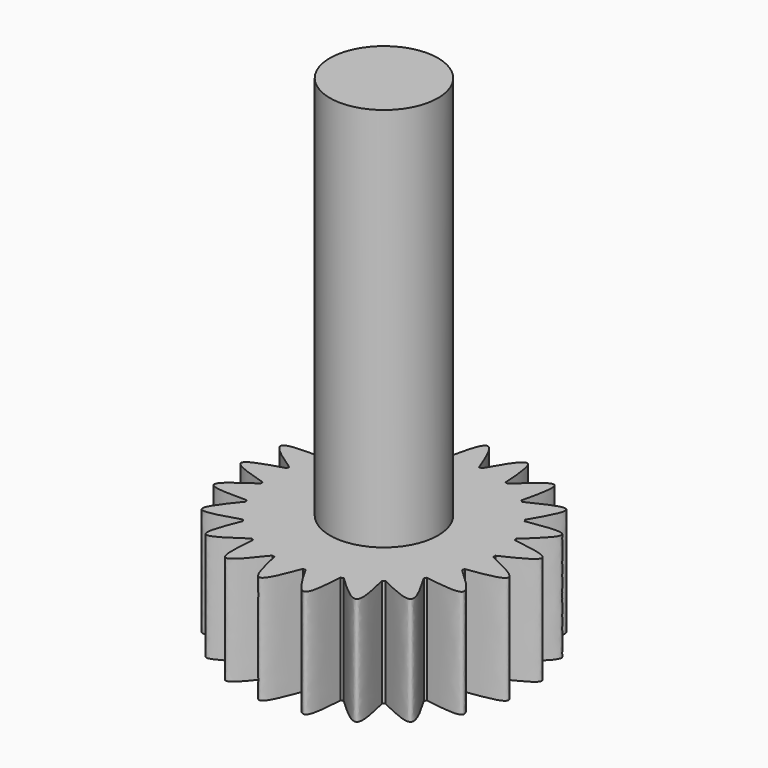
from build123d import *

# Parameters (mm, degrees)
F0_R     = 2.5
F1_DEPTH = 5
F2_COUNT = 21
F3_DEPTH = 22.8
F4_DEPTH = 5
F6_DEPTH = 7.5
F7_DEPTH = 5


with BuildPart() as f1:
    # F0 (on Top) → F1 (new body)
    with BuildSketch(Plane.XY):
        with BuildLine():
            ThreePointArc((-5.0517323761, -0.7), (0.3508310717, -5.0879187846), (5.1, 0))
            ThreePointArc((5.1, 0), (0.3508310717, 5.0879187846), (-5.0517323761, 0.7))
            ThreePointArc((-5.0517323761, 0.7), (-5.1, 0), (-5.0517323761, -0.7))
        make_face()
        Circle(F0_R, mode=Mode.SUBTRACT)
        with BuildLine():
            ThreePointArc((-5.0517323761, -0.7), (-5.1, 0), (-5.0517323761, 0.7))
            add(Edge.make_bspline(
                [(-5.0517323761, -0.7), (-5.8325955094, -0.4666666667), (-7.3674044906, 0), (-5.8325955094, 0.4666666667), (-5.0517323761, 0.7)],
                knots=[0, 0, 0, 0, 0.5, 1, 1, 1, 1], degree=3))
        make_face()
    extrude(amount=F1_DEPTH)


with BuildPart() as f2_1:
    # F2: instance of F1
    add(f1.part.rotate(Axis((0, 0, 5), (0, 0, 1)), 1 * 360 / F2_COUNT))


with BuildPart() as f2_2:
    # F2: instance of F1
    add(f1.part.rotate(Axis((0, 0, 5), (0, 0, 1)), 2 * 360 / F2_COUNT))


with BuildPart() as f2_3:
    # F2: instance of F1
    add(f1.part.rotate(Axis((0, 0, 5), (0, 0, 1)), 3 * 360 / F2_COUNT))


with BuildPart() as f2_4:
    # F2: instance of F1
    add(f1.part.rotate(Axis((0, 0, 5), (0, 0, 1)), 4 * 360 / F2_COUNT))


with BuildPart() as f2_5:
    # F2: instance of F1
    add(f1.part.rotate(Axis((0, 0, 5), (0, 0, 1)), 5 * 360 / F2_COUNT))


with BuildPart() as f2_6:
    # F2: instance of F1
    add(f1.part.rotate(Axis((0, 0, 5), (0, 0, 1)), 6 * 360 / F2_COUNT))


with BuildPart() as f2_7:
    # F2: instance of F1
    add(f1.part.rotate(Axis((0, 0, 5), (0, 0, 1)), 7 * 360 / F2_COUNT))


with BuildPart() as f2_8:
    # F2: instance of F1
    add(f1.part.rotate(Axis((0, 0, 5), (0, 0, 1)), 8 * 360 / F2_COUNT))


with BuildPart() as f2_9:
    # F2: instance of F1
    add(f1.part.rotate(Axis((0, 0, 5), (0, 0, 1)), 9 * 360 / F2_COUNT))


with BuildPart() as f2_10:
    # F2: instance of F1
    add(f1.part.rotate(Axis((0, 0, 5), (0, 0, 1)), 10 * 360 / F2_COUNT))


with BuildPart() as f2_11:
    # F2: instance of F1
    add(f1.part.rotate(Axis((0, 0, 5), (0, 0, 1)), 11 * 360 / F2_COUNT))


with BuildPart() as f2_12:
    # F2: instance of F1
    add(f1.part.rotate(Axis((0, 0, 5), (0, 0, 1)), 12 * 360 / F2_COUNT))


with BuildPart() as f2_13:
    # F2: instance of F1
    add(f1.part.rotate(Axis((0, 0, 5), (0, 0, 1)), 13 * 360 / F2_COUNT))


with BuildPart() as f2_14:
    # F2: instance of F1
    add(f1.part.rotate(Axis((0, 0, 5), (0, 0, 1)), 14 * 360 / F2_COUNT))


with BuildPart() as f2_15:
    # F2: instance of F1
    add(f1.part.rotate(Axis((0, 0, 5), (0, 0, 1)), 15 * 360 / F2_COUNT))


with BuildPart() as f2_16:
    # F2: instance of F1
    add(f1.part.rotate(Axis((0, 0, 5), (0, 0, 1)), 16 * 360 / F2_COUNT))


with BuildPart() as f2_17:
    # F2: instance of F1
    add(f1.part.rotate(Axis((0, 0, 5), (0, 0, 1)), 17 * 360 / F2_COUNT))


with BuildPart() as f2_18:
    # F2: instance of F1
    add(f1.part.rotate(Axis((0, 0, 5), (0, 0, 1)), 18 * 360 / F2_COUNT))


with BuildPart() as f2_19:
    # F2: instance of F1
    add(f1.part.rotate(Axis((0, 0, 5), (0, 0, 1)), 19 * 360 / F2_COUNT))


with BuildPart() as f2_20:
    # F2: instance of F1
    add(f1.part.rotate(Axis((0, 0, 5), (0, 0, 1)), 20 * 360 / F2_COUNT))


with BuildPart() as f1_1:
    add(f1.part)

    add(f2_1.part)  # F3 merges F2_1

    add(f2_2.part)  # F3 merges F2_2

    add(f2_3.part)  # F3 merges F2_3

    add(f2_4.part)  # F3 merges F2_4

    add(f2_5.part)  # F3 merges F2_5

    add(f2_6.part)  # F3 merges F2_6

    add(f2_7.part)  # F3 merges F2_7

    add(f2_8.part)  # F3 merges F2_8

    add(f2_9.part)  # F3 merges F2_9

    add(f2_10.part)  # F3 merges F2_10

    add(f2_11.part)  # F3 merges F2_11

    add(f2_12.part)  # F3 merges F2_12

    add(f2_13.part)  # F3 merges F2_13

    add(f2_14.part)  # F3 merges F2_14

    add(f2_15.part)  # F3 merges F2_15

    add(f2_16.part)  # F3 merges F2_16

    add(f2_17.part)  # F3 merges F2_17

    add(f2_18.part)  # F3 merges F2_18

    add(f2_19.part)  # F3 merges F2_19

    add(f2_20.part)  # F3 merges F2_20
    # F0 (on Top) → F3 (join)
    with BuildSketch(Plane.XY):
        Circle(F0_R)
    extrude(amount=F3_DEPTH)

    # F0 (on Top) → F4 (join)
    with BuildSketch(Plane.XY):
        Circle(F0_R)
    extrude(amount=-F4_DEPTH)

    # F5 (on face) → F6 (cut)
    with BuildSketch(Plane(origin=(0, 0, -5), x_dir=(1, 0, 0), z_dir=(0, 0, -1))):
        with BuildLine():
            ThreePointArc((0, -1.25), (0.8838834765, -0.8838834765), (1.25, 0))
            Line((1.25, 0), (0, 0))
            Line((0, 0), (0, -1.25))
        make_face()
        with BuildLine():
            Line((0, -1.25), (0, 0))
            Line((0, 0), (-1.25, 0))
            ThreePointArc((-1.25, 0), (-0.8838834765, -0.8838834765), (0, -1.25))
        make_face()
        with BuildLine():
            Line((-1.25, 0), (0, 0))
            Line((0, 0), (0, 1.25))
            ThreePointArc((0, 1.25), (-0.8838834765, 0.8838834765), (-1.25, 0))
        make_face()
        with BuildLine():
            Line((0, 0), (1.25, 0))
            ThreePointArc((1.25, 0), (0.8838834765, 0.8838834765), (0, 1.25))
            Line((0, 1.25), (0, 0))
        make_face()
        with BuildLine():
            ThreePointArc((0, 1.25), (0.8838834765, 0.8838834765), (1.25, 0))
            Line((1.25, 0), (2.5, 0))
            ThreePointArc((2.5, 0), (1.767766953, 1.767766953), (0, 2.5))
            Line((0, 2.5), (0, 1.25))
        make_face()
        with BuildLine():
            Line((0, -2.5), (0, -1.25))
            ThreePointArc((0, -1.25), (-0.8838834765, -0.8838834765), (-1.25, 0))
            Line((-1.25, 0), (-2.5, 0))
            ThreePointArc((-2.5, 0), (-1.767766953, -1.767766953), (0, -2.5))
        make_face()
    extrude(amount=-F6_DEPTH, mode=Mode.SUBTRACT)

    # F7 (cut): faces of the model
    f7_faces = [f1_1.faces().sort_by_distance(p)[0] for p in [
        (1.2378717796, 1.2378717796, -5),
        (-1.2378717796, -1.2378717796, -5),
    ]]
    extrude(f7_faces, amount=-F7_DEPTH, mode=Mode.SUBTRACT)


solid = f1_1.part
